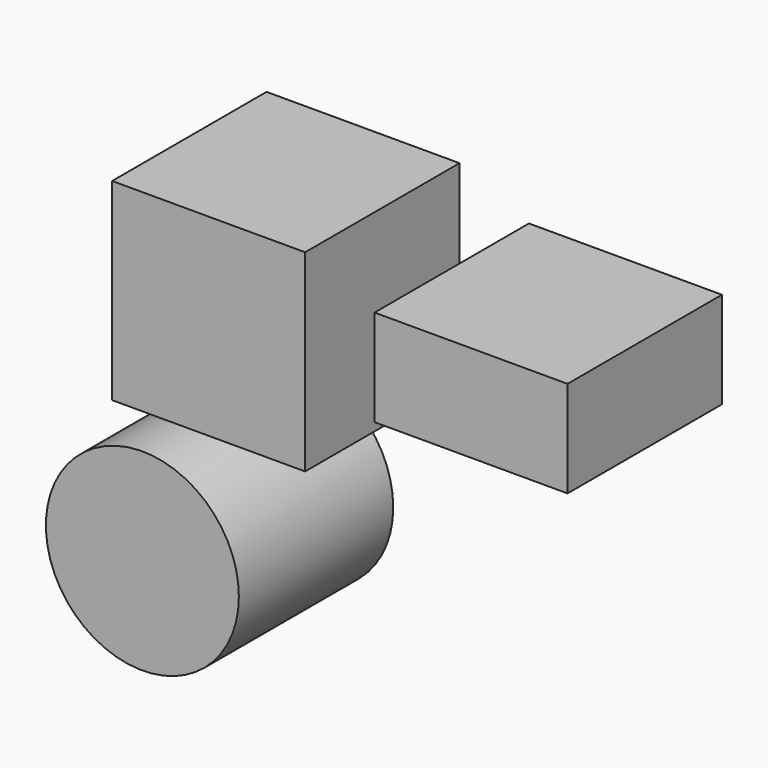
from build123d import *

# Parameters (mm, degrees)
F0_W     = 50.8
F0_H     = 50.8
F3_DEPTH = 50.8
F1_W     = 50.8
F1_H     = 25.4
F4_DEPTH = 50.8
F2_R     = 25.4
F5_DEPTH = 50.8


with BuildPart() as f3:
    # F0 (on Front) → F3 (new body)
    with BuildSketch(Plane.XZ):
        with Locations((-31.631861, 37.272409)):
            Rectangle(F0_W, F0_H)
    extrude(amount=F3_DEPTH)


with BuildPart() as f4:
    # F1 (on Front) → F4 (new body)
    with BuildSketch(Plane.XZ):
        with Locations((37.44654, 41.94254)):
            Rectangle(F1_W, F1_H)
    extrude(amount=F4_DEPTH)


with BuildPart() as f5:
    # F2 (on Front) → F5 (new body)
    with BuildSketch(Plane.XZ):
        with Locations((-49.075902, -22.793546)):
            Circle(F2_R)
    extrude(amount=F5_DEPTH)


solid = Compound([f3.part, f4.part, f5.part])
